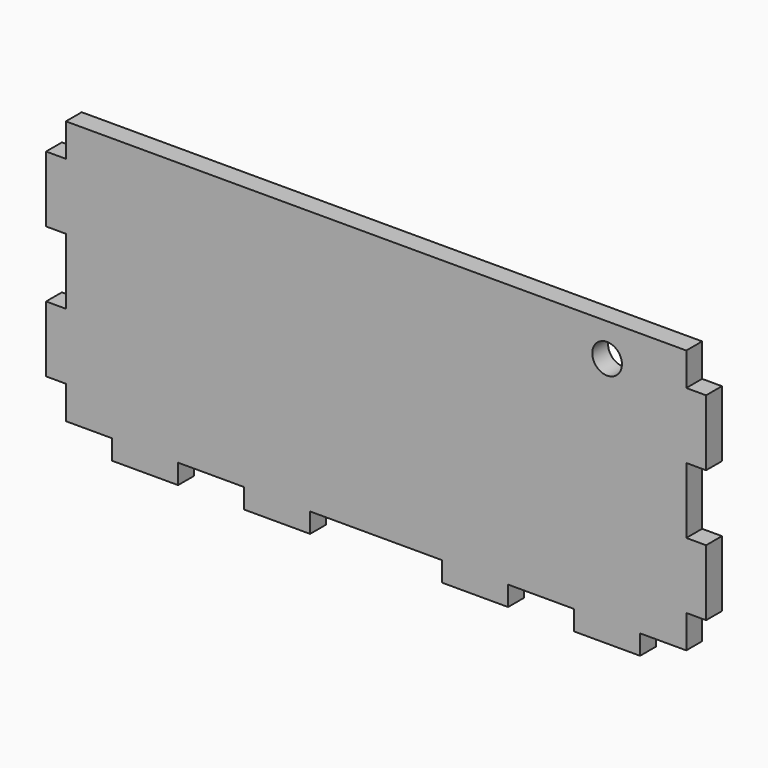
from build123d import *

# Parameters (mm, degrees)
F0_R     = 2.25
F1_DEPTH = 3


with BuildPart() as f1:
    # F0 (on Front) → F1 (new body)
    with BuildSketch(Plane.XZ):
        Polygon((-10, -20), (0, -20), (10, -20), (10, -23), (20, -23), (20, -20), (30, -20), (30, -23), (40, -23), (40, -20), (47, -20), (47, -15), (50, -15), (50, -5), (47, -5), (47, 5), (50, 5), (50, 15), (47, 15), (47, 20), (-47, 20), (-47, 15), (-50, 15), (-50, 5), (-47, 5), (-47, -5), (-50, -5), (-50, -15), (-47, -15), (-47, -20), (-40, -20), (-40, -23), (-30, -23), (-30, -20), (-20, -20), (-20, -23), (-10, -23), align=None)
        with Locations((35, 15)):
            Circle(F0_R, mode=Mode.SUBTRACT)
    extrude(amount=F1_DEPTH)


solid = f1.part
